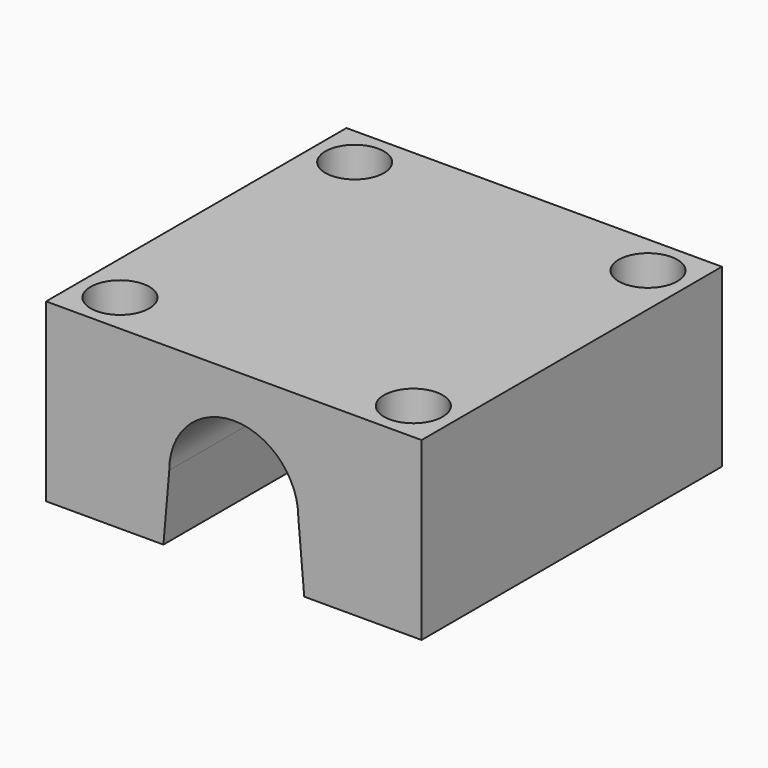
from build123d import *

# Parameters (mm, degrees)
F1_DEPTH = 15
F3_DEPTH = 64
F4_R     = 5
F4_R_2   = 3
F5_DEPTH = 24


with BuildPart() as f1:
    # F0 (on Top) → F1 (new body, symmetric)
    with BuildSketch(Plane.XY):
        with BuildLine():
            Line((25, -32), (32, -32))
            Line((32, -32), (32, -25))
            Line((32, -25), (28, -25))
            ThreePointArc((28, -25), (27.1213203436, -27.1213203436), (25, -28))
            Line((25, -28), (25, -32))
        make_face()
        with BuildLine():
            Line((12, -32), (25, -32))
            Line((25, -32), (25, -28))
            ThreePointArc((25, -28), (22.8786796564, -22.8786796564), (28, -25))
            Line((28, -25), (32, -25))
            Line((32, -25), (32, 25))
            Line((32, 25), (28, 25))
            ThreePointArc((28, 25), (22.8786796564, 22.8786796564), (25, 28))
            Line((25, 28), (25, 32))
            Line((25, 32), (-25, 32))
            Line((-25, 32), (-25, 28))
            ThreePointArc((-25, 28), (-22.8786796564, 27.1213203436), (-22, 25))
            ThreePointArc((-22, 25), (-25, 22), (-28, 25))
            Line((-28, 25), (-32, 25))
            Line((-32, 25), (-32, -25))
            Line((-32, -25), (-28, -25))
            ThreePointArc((-28, -25), (-25, -22), (-22, -25))
            ThreePointArc((-22, -25), (-22.8786796564, -27.1213203436), (-25, -28))
            Line((-25, -28), (-25, -32))
            Line((-25, -32), (-12, -32))
            Line((-12, -32), (12, -32))
        make_face()
        with BuildLine():
            Line((28, 25), (32, 25))
            Line((32, 25), (32, 32))
            Line((32, 32), (25, 32))
            Line((25, 32), (25, 28))
            ThreePointArc((25, 28), (27.1213203436, 27.1213203436), (28, 25))
        make_face()
        with BuildLine():
            Line((-32, -32), (-25, -32))
            Line((-25, -32), (-25, -28))
            ThreePointArc((-25, -28), (-27.1213203436, -27.1213203436), (-28, -25))
            Line((-28, -25), (-32, -25))
            Line((-32, -25), (-32, -32))
        make_face()
        with BuildLine():
            Line((-25, 28), (-25, 32))
            Line((-25, 32), (-32, 32))
            Line((-32, 32), (-32, 25))
            Line((-32, 25), (-28, 25))
            ThreePointArc((-28, 25), (-27.1213203436, 27.1213203436), (-25, 28))
        make_face()
        with BuildLine():
            Line((12, -32), (25, -32))
            Line((25, -32), (25, -28))
            ThreePointArc((25, -28), (22.8786796564, -22.8786796564), (28, -25))
            Line((28, -25), (32, -25))
            Line((32, -25), (32, 25))
            Line((32, 25), (28, 25))
            ThreePointArc((28, 25), (22.8786796564, 22.8786796564), (25, 28))
            Line((25, 28), (25, 32))
            Line((25, 32), (-25, 32))
            Line((-25, 32), (-25, 28))
            ThreePointArc((-25, 28), (-22.8786796564, 27.1213203436), (-22, 25))
            ThreePointArc((-22, 25), (-25, 22), (-28, 25))
            Line((-28, 25), (-32, 25))
            Line((-32, 25), (-32, -25))
            Line((-32, -25), (-28, -25))
            ThreePointArc((-28, -25), (-25, -22), (-22, -25))
            ThreePointArc((-22, -25), (-22.8786796564, -27.1213203436), (-25, -28))
            Line((-25, -28), (-25, -32))
            Line((-25, -32), (-12, -32))
            Line((-12, -32), (12, -32))
        make_face()
    extrude(amount=F1_DEPTH, both=True)

    # F2 (on face) → F3 (cut)
    with BuildSketch(Plane.XZ.offset(32)):
        with BuildLine():
            Line((-11, -3.5), (-12, -15))
            Line((-12, -15), (0, -15))
            Line((0, -15), (0, -14.5))
            ThreePointArc((0, -14.5), (-7.7781745931, -11.2781745931), (-11, -3.5))
        make_face()
        with BuildLine():
            Line((0, -3.5), (-11, -3.5))
            ThreePointArc((-11, -3.5), (-7.7781745931, -11.2781745931), (0, -14.5))
            Line((0, -14.5), (0, -3.5))
        make_face()
        with BuildLine():
            Line((0, -3.5), (0, -14.5))
            ThreePointArc((0, -14.5), (7.7781745931, -11.2781745931), (11, -3.5))
            Line((11, -3.5), (0, -3.5))
        make_face()
        with BuildLine():
            Line((0, -14.5), (0, -15))
            Line((0, -15), (12, -15))
            Line((12, -15), (11, -3.5))
            ThreePointArc((11, -3.5), (7.7781745931, -11.2781745931), (0, -14.5))
        make_face()
        with BuildLine():
            ThreePointArc((11, -3.5), (7.7781745931, 4.2781745931), (0, 7.5))
            Line((0, 7.5), (0, -3.5))
            Line((0, -3.5), (11, -3.5))
        make_face()
        with BuildLine():
            ThreePointArc((0, 7.5), (-7.7781745931, 4.2781745931), (-11, -3.5))
            Line((-11, -3.5), (0, -3.5))
            Line((0, -3.5), (0, 7.5))
        make_face()
    extrude(amount=-F3_DEPTH, mode=Mode.SUBTRACT)

    # F4 (on face) → F5 (cut)
    with BuildSketch(Plane.XY.offset(15)):
        with Locations((-25, -25)):
            Circle(F4_R)
        with Locations((-25, -25)):
            Circle(F4_R_2, mode=Mode.SUBTRACT)
        with Locations((-25, 25)):
            Circle(F4_R)
        with Locations((-25, 25)):
            Circle(F4_R_2, mode=Mode.SUBTRACT)
        with Locations((25, 25)):
            Circle(F4_R)
        with Locations((25, 25)):
            Circle(F4_R_2, mode=Mode.SUBTRACT)
        with Locations((25, -25)):
            Circle(F4_R)
        with Locations((25, -25)):
            Circle(F4_R_2, mode=Mode.SUBTRACT)
        with Locations((-25, -25)):
            Circle(F4_R_2)
        with Locations((25, -25)):
            Circle(F4_R_2)
        with Locations((25, 25)):
            Circle(F4_R_2)
        with Locations((-25, 25)):
            Circle(F4_R_2)
    extrude(amount=-F5_DEPTH, mode=Mode.SUBTRACT)


solid = f1.part
